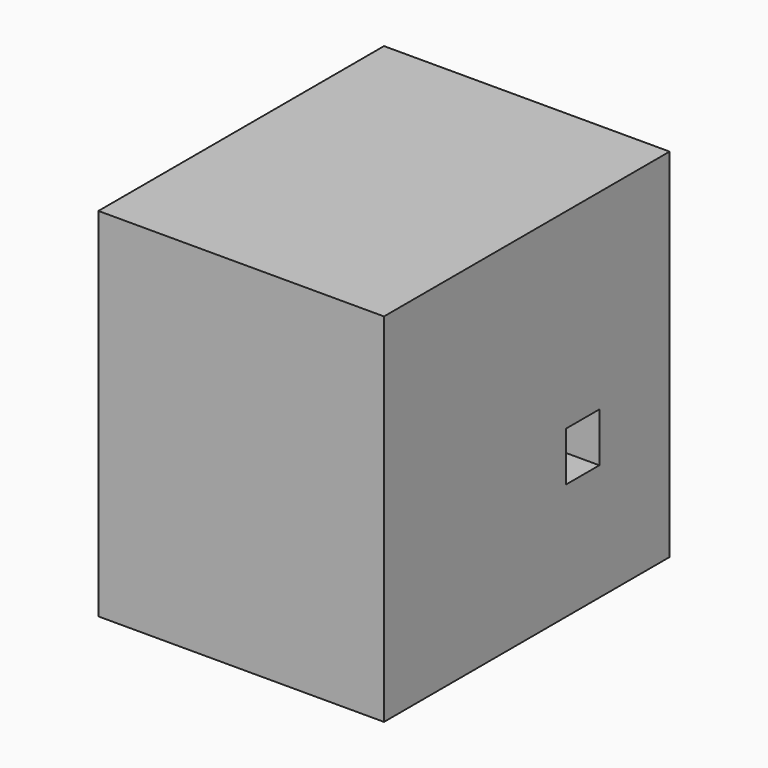
from build123d import *

# Parameters (mm, degrees)
F0_W     = 20
F0_H     = 25
F1_DEPTH = 12.5000001863
F3_W     = 2.9370598495
F3_H     = 3.4478511661
F4_DEPTH = 25


with BuildPart() as f1:
    # F0 (on Top) → F1 (new body, symmetric)
    with BuildSketch(Plane.XY):
        with Locations((10, 12.5)):
            Rectangle(F0_W, F0_H)
    extrude(amount=F1_DEPTH, both=True)

    # F3 (on face) → F4 (cut)
    with BuildSketch(Plane.YZ.offset(20)):
        with Locations((17.3844564706, -2.6178145781)):
            Rectangle(F3_W, F3_H)
    extrude(amount=-F4_DEPTH, mode=Mode.SUBTRACT)


solid = f1.part
